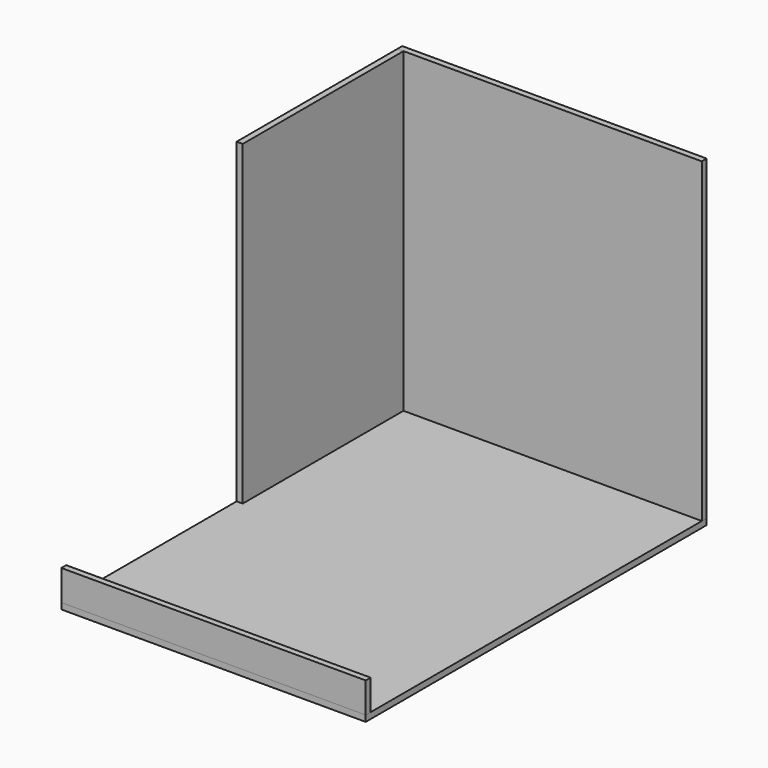
from build123d import *

# Parameters (mm, degrees)
F1_W     = 500
F1_H     = 700
F2_DEPTH = 10
F3_W     = 500
F3_H     = 520
F4_DEPTH = 10
F5_W     = 330
F5_H     = 520
F6_DEPTH = 10
F7_W     = 500
F7_H     = 50
F8_DEPTH = 10


with BuildPart() as f2:
    # F1 (on Top) → F2 (new body)
    with BuildSketch(Plane.XY):
        Rectangle(F1_W, F1_H)
    extrude(amount=F2_DEPTH)


with BuildPart() as f4:
    # F3 (on face) → F4 (new body)
    with BuildSketch(Plane(origin=(0, 350, 0), x_dir=(-1, 0, 0), z_dir=(0, 1, 0))):
        with Locations((0, 270)):
            Rectangle(F3_W, F3_H)
    extrude(amount=-F4_DEPTH)


with BuildPart() as f6:
    # F5 (on face) → F6 (new body)
    with BuildSketch(Plane(origin=(-250, 0, 0), x_dir=(0, -1, 0), z_dir=(-1, 0, 0))):
        with Locations((-175, 270)):
            Rectangle(F5_W, F5_H)
    extrude(amount=-F6_DEPTH)


with BuildPart() as f8:
    # F7 (on face) → F8 (new body)
    with BuildSketch(Plane.XZ.offset(350)):
        with Locations((0, 35)):
            Rectangle(F7_W, F7_H)
    extrude(amount=-F8_DEPTH)


solid = Compound([f2.part, f4.part, f6.part, f8.part])
